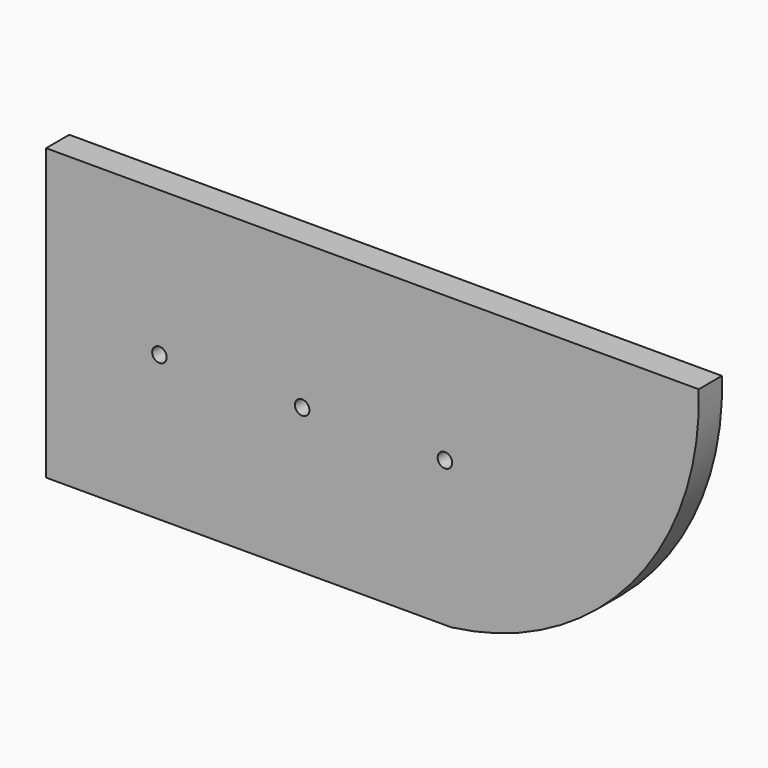
from build123d import *

# Parameters (mm, degrees)
F0_R     = 1.27
F1_DEPTH = 5.08


with BuildPart() as f1:
    # F0 (on Front) → F1 (new body)
    with BuildSketch(Plane.XZ):
        with BuildLine():
            Line((-57.15, -25.4), (13.822327, -25.4))
            ThreePointArc((13.822327, -25.4), (45.326422, -8.392825), (57.15, 25.4))
            Line((57.15, 25.4), (-57.15, 25.4))
            Line((-57.15, 25.4), (-57.15, -25.4))
        make_face()
        with Locations((-37.3, 0)):
            Circle(F0_R, mode=Mode.SUBTRACT)
        with Locations((-12.3, 0)):
            Circle(F0_R, mode=Mode.SUBTRACT)
        with Locations((12.7, 0)):
            Circle(F0_R, mode=Mode.SUBTRACT)
    extrude(amount=F1_DEPTH)


solid = f1.part
